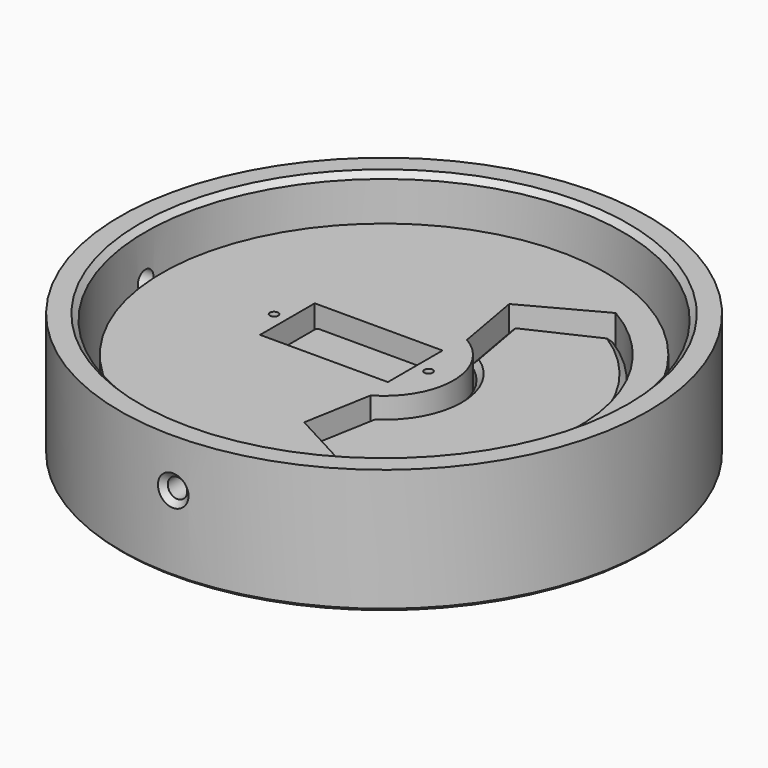
from build123d import *

# Parameters (mm, degrees)
SKETCH021_R     = 39.95
SKETCH021_R_2   = 0.75
SKETCH021_W     = 23
SKETCH021_H     = 12.3
PAD010_DEPTH    = 16
SKETCH_R        = 47.5
PAD_DEPTH       = 5
PAD011_DEPTH    = 8
CHAMFER_SIZE    = 1
SKETCH023_R     = 47.5
SKETCH023_R_2   = 42.95
PAD012_DEPTH    = 17.5
CHAMFER001_SIZE = 1
CHAMFER002_SIZE = 0.5
SKETCH024_R     = 1.75
POCKET_DEPTH    = 8
SKETCH025_R     = 1.75
POCKET001_DEPTH = 8
CHAMFER003_SIZE = 1
CHAMFER004_SIZE = 1
SKETCH026_R     = 1.1
SKETCH026_R_2   = 5
POCKET002_DEPTH = 8
CHAMFER005_SIZE = 1


with BuildPart() as top_layer:
    # Sketch021 → Pad010 (new body)
    with BuildSketch(Plane.XY):
        Circle(SKETCH021_R)
        with Locations((8, 0)):
            Circle(SKETCH021_R_2, mode=Mode.SUBTRACT)
        with Locations((-19.8, 0)):
            Circle(SKETCH021_R_2, mode=Mode.SUBTRACT)
        with BuildLine():
            ThreePointArc((6.249999, -10.825318), (12.5, -2e-06), (6.250002, 10.825316))
            Line((4.071802, 23.052558), (6.250002, 10.825316))
            Line((17.475007, 30.267584), (4.071802, 23.052558))
            ThreePointArc((17.474996, -30.26759), (34.95, -6e-06), (17.475007, 30.267584))
            Line((17.474996, -30.26759), (4.071794, -23.052559))
            Line((6.249999, -10.825318), (4.071794, -23.052559))
        make_face(mode=Mode.SUBTRACT)
        with Locations((-5.9, 0)):
            Rectangle(SKETCH021_W, SKETCH021_H, mode=Mode.SUBTRACT)
    extrude(amount=PAD010_DEPTH)


with BuildPart() as top_servo_layer_jig:
    # Sketch → Pad (new body)
    with BuildSketch(Plane.XY):
        Circle(SKETCH_R)
    extrude(amount=PAD_DEPTH)

    # Sketch022 (on Face3 of Pad) → Pad011 (join)
    with BuildSketch(Plane.XY.offset(5)):
        with BuildLine():
            Line((-15.5, -5.9), (3.7, -5.9))
            ThreePointArc((3.7, -5.9), (4.76066, -5.46066), (5.2, -4.4))
            Line((5.2, -4.4), (5.2, 4.4))
            ThreePointArc((5.2, 4.4), (4.76066, 5.46066), (3.7, 5.9))
            Line((3.7, 5.9), (-15.5, 5.9))
            ThreePointArc((-15.5, 5.9), (-16.56066, 5.46066), (-17, 4.4))
            Line((-17, 4.4), (-17, -4.4))
            ThreePointArc((-17, -4.4), (-16.56066, -5.46066), (-15.5, -5.9))
        make_face()
        with BuildLine():
            ThreePointArc((6.792481, -11.084322), (13, 0), (6.792481, 11.084322))
            Line((4.673847, 22.938072), (6.792481, 11.084322))
            Line((17.817201, 29.07503), (4.673847, 22.938072))
            ThreePointArc((17.817201, -29.07503), (34.1, 0), (17.817201, 29.07503))
            Line((17.817201, -29.07503), (4.673847, -22.938072))
            Line((6.792481, -11.084322), (4.673847, -22.938072))
        make_face()
    extrude(amount=PAD011_DEPTH)

    # Chamfer
    chamfer_edges = [top_servo_layer_jig.edges().sort_by_distance(p)[0] for p in [
        (-5.9, -5.9, 13),
    ]]
    chamfer(chamfer_edges, length=CHAMFER_SIZE)

    # Sketch023 (on Face4 of Chamfer) → Pad012 (join)
    with BuildSketch(Plane.XY.offset(5)):
        Circle(SKETCH023_R)
        Circle(SKETCH023_R_2, mode=Mode.SUBTRACT)
    extrude(amount=PAD012_DEPTH)

    # Chamfer001
    chamfer001_edges = [top_servo_layer_jig.edges().sort_by_distance(p)[0] for p in [
        (-42.95, 0, 22.5),
    ]]
    chamfer(chamfer001_edges, length=CHAMFER001_SIZE)

    # Chamfer002
    chamfer002_edges = [top_servo_layer_jig.edges().sort_by_distance(p)[0] for p in [
        (-47.5, 0, 0),
    ]]
    chamfer(chamfer002_edges, length=CHAMFER002_SIZE)

    # Sketch024 (on DatumPlane) → Pocket (cut)
    with BuildSketch(Plane(origin=(-50, 0, 22.5), x_dir=(0, 0, -1), z_dir=(1, 0, 0))):
        with Locations((8.7, 0)):
            Circle(SKETCH024_R)
    extrude(amount=POCKET_DEPTH, mode=Mode.SUBTRACT)

    # Sketch025 (on DatumPlane) → Pocket001 (cut)
    with BuildSketch(Plane(origin=(0, -50, 22.5), x_dir=(1, 0, 0), z_dir=(0, -1, 0))):
        with Locations((0, -8.7)):
            Circle(SKETCH025_R)
    extrude(amount=-POCKET001_DEPTH, mode=Mode.SUBTRACT)

    # Chamfer003
    chamfer003_edges = [top_servo_layer_jig.edges().sort_by_distance(p)[0] for p in [
        (-47.5, 0, 15.55),
        (-1.75, -47.467752, 13.8),
    ]]
    chamfer(chamfer003_edges, length=CHAMFER003_SIZE)

    # Chamfer004
    chamfer004_edges = [top_servo_layer_jig.edges().sort_by_distance(p)[0] for p in [
        (5.733164, -17.011197, 13),
        (13, 0, 13),
        (5.733164, 17.011197, 13),
        (11.245524, 26.006551, 13),
        (34.1, 0, 13),
        (11.245524, -26.006551, 13),
    ]]
    chamfer(chamfer004_edges, length=CHAMFER004_SIZE)

    # Sketch026 (on Face4 of Chamfer004) → Pocket002 (cut)
    with BuildSketch(Plane.XY.offset(5)):
        with Locations((8, 0)):
            Circle(SKETCH026_R)
        with Locations((-19.8, 0)):
            Circle(SKETCH026_R)
        with Locations((-36.3, 0)):
            Circle(SKETCH026_R_2)
    extrude(amount=-POCKET002_DEPTH, mode=Mode.SUBTRACT)

    # Chamfer005
    chamfer005_edges = [top_servo_layer_jig.edges().sort_by_distance(p)[0] for p in [
        (6.9, 0, 0),
        (-20.9, 0, 0),
        (-41.3, 0, 0),
    ]]
    chamfer(chamfer005_edges, length=CHAMFER005_SIZE)


solid = Compound([top_layer.part, top_servo_layer_jig.part])
